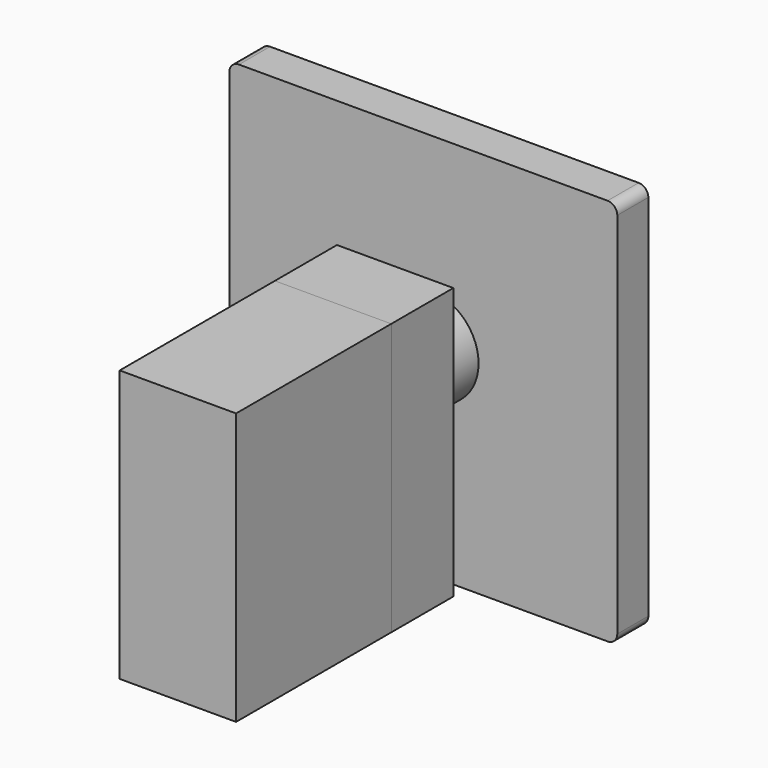
from build123d import *

# Parameters (mm, degrees)
F0_W      = 200
F0_H      = 200
F1_DEPTH  = 20
F2_R      = 5
F3_R      = 25
F4_DEPTH  = 100
F6_DEPTH  = 40
F8_DEPTH  = 50
F9_DEPTH  = 50
F10_DEPTH = 40
F11_DEPTH = 50


with BuildPart() as f1:
    # F0 (on Front) → F1 (new body)
    with BuildSketch(Plane.XZ):
        with Locations((-87.5037372112, 71.5086780488)):
            Rectangle(F0_W, F0_H)
    extrude(amount=F1_DEPTH)

    # F2
    f2_edges = [f1.edges().sort_by_distance(p)[0] for p in [
        (12.496263, -10, 171.508678),
        (-187.503737, -10, 171.508678),
        (-187.503737, -10, -28.491322),
        (12.496263, -10, -28.491322),
    ]]
    fillet(f2_edges, radius=F2_R)

    # F3 (on face) → F4 (join)
    with BuildSketch(Plane.XZ.offset(20)):
        with Locations((-84.0123593807, 76.0345458984)):
            Circle(F3_R)
    extrude(amount=F4_DEPTH)

    # F5 (on face) → F6 (cut)
    with BuildSketch(Plane.XZ.offset(120)):
        with BuildLine():
            Line((-59.0123593807, 76.0345458984), (-84.0123593807, 76.0345458984))
            Line((-84.0123593807, 76.0345458984), (-84.0123593807, 51.0345458984))
            ThreePointArc((-84.0123593807, 51.0345458984), (-66.3346898511, 58.3568763688), (-59.0123593807, 76.0345458984))
        make_face()
        with BuildLine():
            Line((-84.0123593807, 101.0345458984), (-84.0123593807, 76.0345458984))
            Line((-84.0123593807, 76.0345458984), (-59.0123593807, 76.0345458984))
            ThreePointArc((-59.0123593807, 76.0345458984), (-66.3346898511, 93.7122154281), (-84.0123593807, 101.0345458984))
        make_face()
    extrude(amount=-F6_DEPTH, mode=Mode.SUBTRACT)



with BuildPart() as f8:
    # F7 (on face) → F8 (new body)
    with BuildSketch(Plane.XZ.offset(120)):
        Polygon((-24.0123593807, 76.0345458984), (-84.0123593807, 76.0345458984), (-84.0123593807, 51.0345458984), (-84.0123593807, 6.0345458984), (-24.0123593807, 6.0345458984), align=None)
    extrude(amount=F8_DEPTH)


with BuildPart() as f1_1:
    add(f1.part)

    add(f8.part)  # F9 merges F8
    # F7 (on face) → F9 (join)
    with BuildSketch(Plane.XZ.offset(120)):
        Polygon((-24.0123593807, 76.0345458984), (-84.0123593807, 76.0345458984), (-84.0123593807, 51.0345458984), (-84.0123593807, 6.0345458984), (-24.0123593807, 6.0345458984), align=None)
        Polygon((-84.0123593807, 101.0345458984), (-84.0123593807, 76.0345458984), (-24.0123593807, 76.0345458984), (-24.0123593807, 146.0345458984), (-84.0123593807, 146.0345458984), align=None)
    extrude(amount=F9_DEPTH)


with BuildPart() as f10:
    # F10 (new): a face of the model
    f10_faces = [f1_1.part.faces().sort_by_distance(p)[0] for p in [
        (-54.0123593807, -120, 76.0345458984),
    ]]
    extrude(f10_faces, amount=F10_DEPTH)


with BuildPart() as f1_2:
    add(f1_1.part)

    # F11 (add): a face of the model
    f11_faces = [f1_2.faces().sort_by_distance(p)[0] for p in [
        (-54.0123593807, -170, 76.0345458984),
    ]]
    extrude(f11_faces, amount=F11_DEPTH)


solid = Compound([f10.part, f1_2.part])
